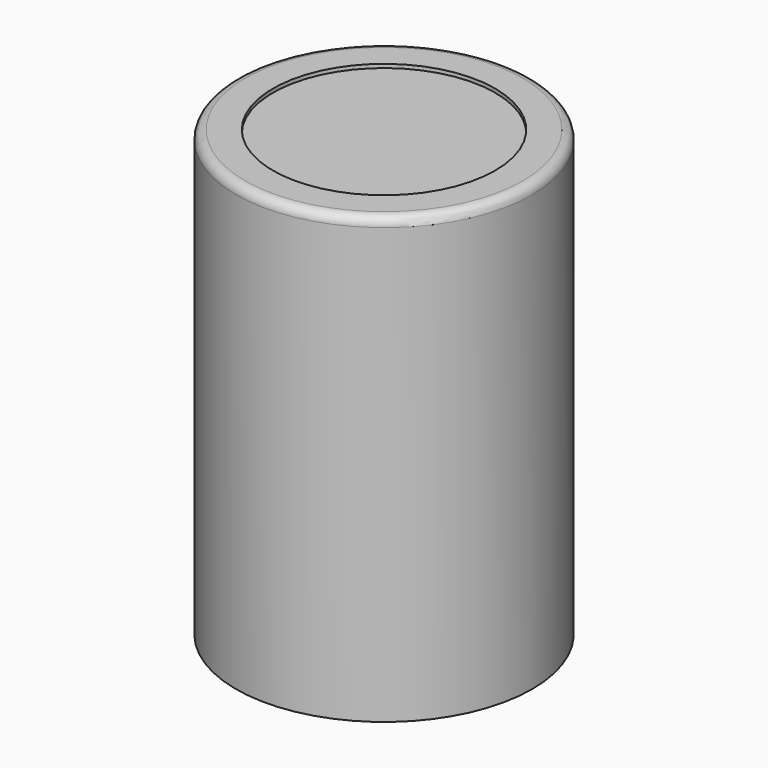
from build123d import *

# Parameters (mm, degrees)
SKETCH006_R     = 4
PAD003_DEPTH    = 12
FILLET002_R     = 0.25
SKETCH007_R     = 3
POCKET003_DEPTH = 0.1


with BuildPart() as part:
    # Sketch006 (on Face1 of CopyFillet002) → Pad003 (new body)
    with BuildSketch(Plane.XY.offset(1.6)):
        with Locations((-19, 8)):
            Circle(SKETCH006_R)
    extrude(amount=PAD003_DEPTH)

    # Fillet002
    fillet002_edges = [part.edges().sort_by_distance(p)[0] for p in [
        (-23, 8, 13.6),
    ]]
    fillet(fillet002_edges, radius=FILLET002_R)

    # Sketch007 (on Face4 of Fillet002) → Pocket003 (cut)
    with BuildSketch(Plane.XY.offset(13.6)):
        with Locations((-19, 8)):
            Circle(SKETCH007_R)
    extrude(amount=-POCKET003_DEPTH, mode=Mode.SUBTRACT)


solid = part.part
